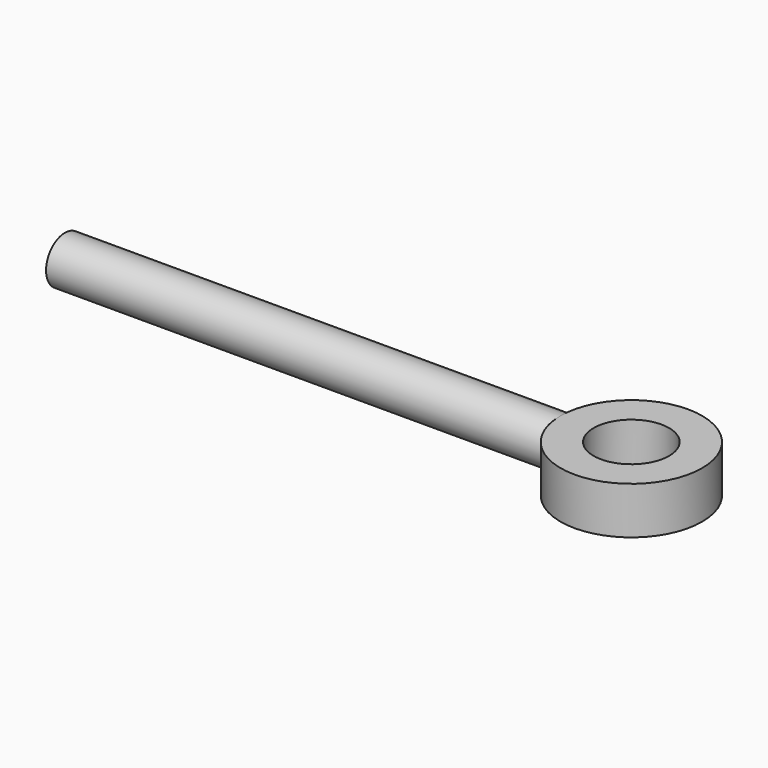
from build123d import *

# Parameters (mm, degrees)
F0_R     = 7.5
F0_R_2   = 4
F1_DEPTH = 2.5
F3_R     = 2.5


with BuildPart() as f1:
    # F0 (on Top) → F1 (new body, symmetric)
    with BuildSketch(Plane.XY):
        Circle(F0_R)
        Circle(F0_R_2, mode=Mode.SUBTRACT)
    extrude(amount=F1_DEPTH, both=True)

    # F3 (on offset) → F4 (join, up to the next surface of F1)
    with BuildSketch(Plane.YZ.offset(-60)):
        Circle(F3_R)
    extrude(until=Until.NEXT)


solid = f1.part
